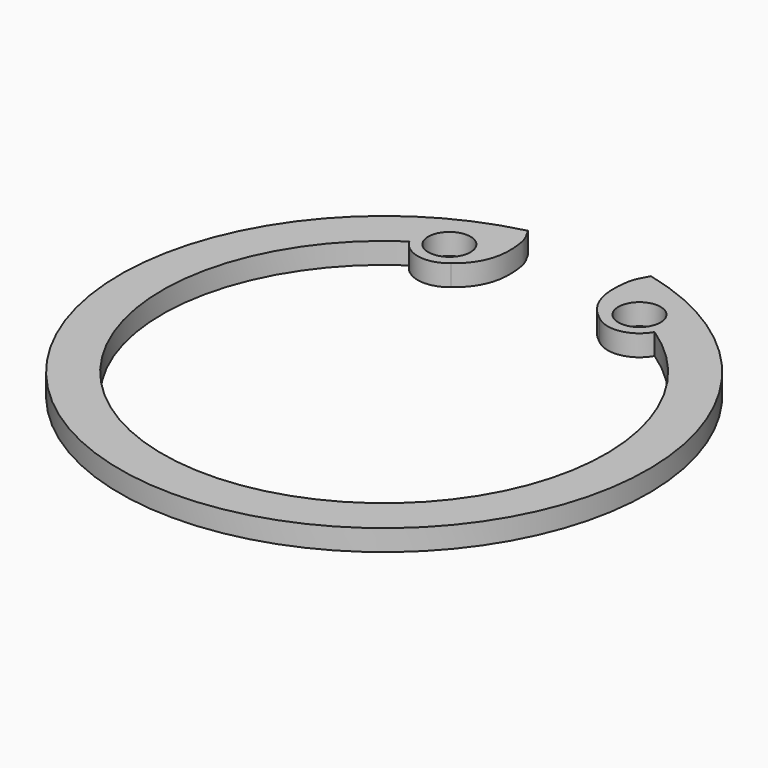
from build123d import *

# Parameters (mm, degrees)
F0_R     = 1
F1_DEPTH = 1


with BuildPart() as f1:
    # F0 (on Top) → F1 (new body)
    with BuildSketch(Plane.XY):
        with BuildLine():
            add(Edge.make_bspline(
                [(-2.9104966439, 12.1564390051), (-2.6116896396, 11.6480191061), (-2.4610225469, 11.2426126579), (-2.338031645, 9.2132649214), (-3.5237959751, 8.3479626184)],
                knots=[0, 0, 0, 0, 0.3834129485, 1, 1, 1, 1], degree=3))
            ThreePointArc((-2.9104966439, 12.1564390051), (0, -12.5), (2.9104966439, 12.1564390051))
            add(Edge.make_bspline(
                [(2.9104966439, 12.1564390051), (2.6116896396, 11.6480191061), (2.4610225469, 11.2426126579), (2.338031645, 9.2132649214), (3.5237959751, 8.3479626184)],
                knots=[0, 0, 0, 0, 0.3834129485, 1, 1, 1, 1], degree=3))
            ThreePointArc((3.5237959751, 8.3479626184), (4.7595037612, 8.0094509047), (5.8058817653, 8.7488134583))
            ThreePointArc((5.8058817653, 8.7488134583), (0, -10.5), (-5.8058817653, 8.7488134583))
            ThreePointArc((-5.8058817653, 8.7488134583), (-4.7595037612, 8.0094509047), (-3.5237959751, 8.3479626184))
        make_face()
        with Locations((-4.5, 9.4868329805)):
            Circle(F0_R, mode=Mode.SUBTRACT)
        with Locations((4.5, 9.4868329805)):
            Circle(F0_R, mode=Mode.SUBTRACT)
    extrude(amount=F1_DEPTH)


solid = f1.part
